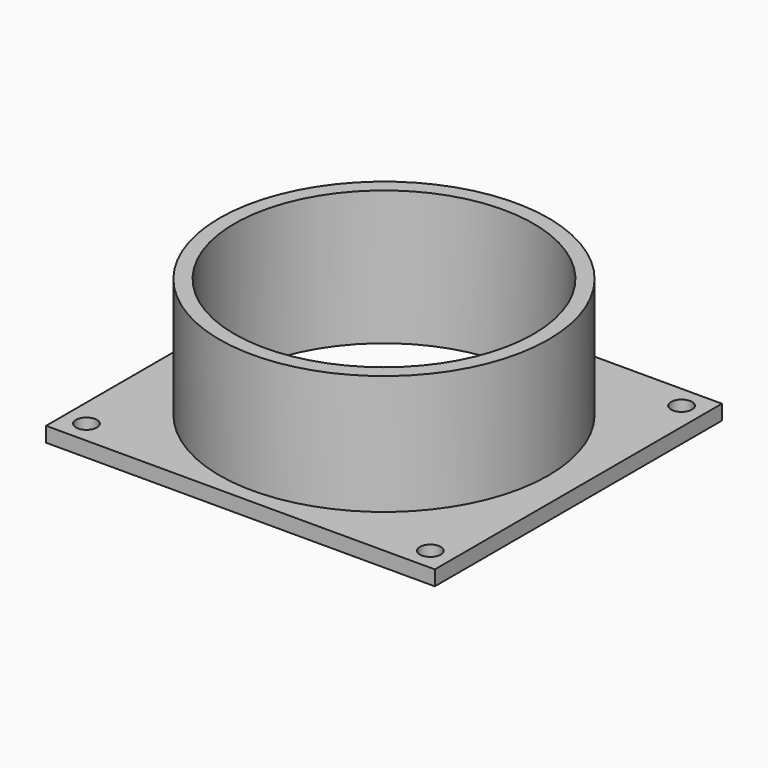
from build123d import *

# Parameters (mm, degrees)
F0_W     = 130
F0_H     = 120
F0_R     = 3.5
F0_R_2   = 50
F1_DEPTH = 5
F2_R     = 55
F2_R_2   = 50
F3_DEPTH = 40


with BuildPart() as f1:
    # F0 (on Top) → F1 (new body)
    with BuildSketch(Plane.XY):
        with Locations((65, 60)):
            Rectangle(F0_W, F0_H)
        with Locations((7.5, 7.5)):
            Circle(F0_R, mode=Mode.SUBTRACT)
        with Locations((122.5, 7.5)):
            Circle(F0_R, mode=Mode.SUBTRACT)
        with Locations((7.5, 112.5)):
            Circle(F0_R, mode=Mode.SUBTRACT)
        with Locations((65, 60)):
            Circle(F0_R_2, mode=Mode.SUBTRACT)
        with Locations((122.5, 112.5)):
            Circle(F0_R, mode=Mode.SUBTRACT)
    extrude(amount=F1_DEPTH)

    # F2 (on face) → F3 (join)
    with BuildSketch(Plane.XY.offset(5)):
        with Locations((65, 60)):
            Circle(F2_R)
        with Locations((65, 60)):
            Circle(F2_R_2, mode=Mode.SUBTRACT)
    extrude(amount=F3_DEPTH)


solid = f1.part
